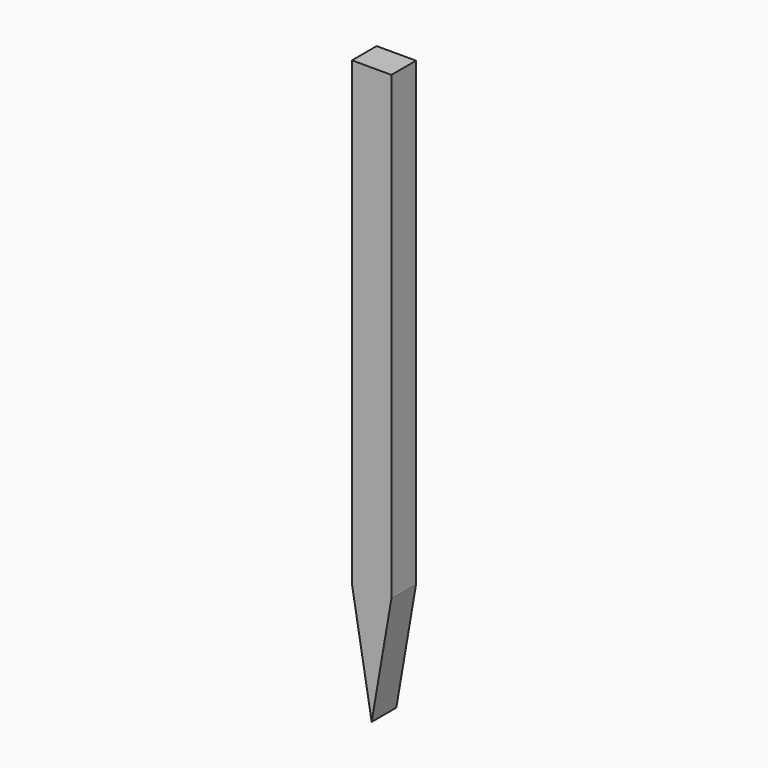
from build123d import *

# Parameters (mm, degrees)
F0_W     = 6.487512
F0_H     = 75.957968
F1_DEPTH = 5.08


with BuildPart() as f1:
    # F0 (on Front) → F1 (new body)
    with BuildSketch(Plane.XZ):
        Rectangle(F0_W, F0_H)
        Polygon((3.243756, -37.978984), (-3.243756, -37.978984), (0, -56.900904), align=None)
    extrude(amount=F1_DEPTH)


solid = f1.part
